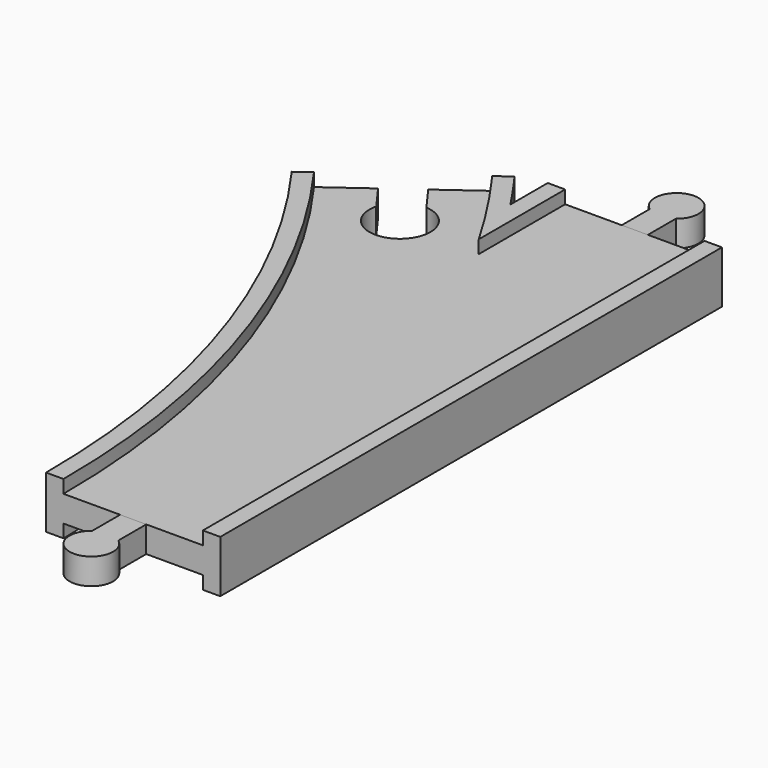
from build123d import *

# Parameters (mm, degrees)
SKETCH013_W       = 32
SKETCH013_H       = 3
POCKET_DEPTH      = 6.001
POCKET_DEPTH_BACK = -6.001
PAD_DEPTH         = 3
PAD001_DEPTH      = 3


with BuildPart() as body:
    # AdditivePipe: sweep along a path in Sketch002
    with BuildLine(Plane.XY) as additivepipe_path:
        ThreePointArc((0, 0), (-10.865453, 68.601773), (-42.398227, 130.488326))
    # Sketch → AdditivePipe (sweep)
    with BuildSketch(Plane.XZ):
        Polygon((-20, 6), (-20, -6), (-16, -6), (-16, -3), (-9, -3), (9, -3), (16, -3), (16, -6), (20, -6), (20, 6), (16, 6), (16, 3), (9, 3), (-9, 3), (-16, 3), (-16, 6), align=None)
    sweep(path=additivepipe_path.line)

    # AdditivePipe001: sweep along a path in Sketch001
    with BuildLine(Plane.XY) as additivepipe001_path:
        Line((0, 0), (0, 144))
    # Sketch → AdditivePipe001 (sweep)
    with BuildSketch(Plane.XZ):
        Polygon((-20, 6), (-20, -6), (-16, -6), (-16, -3), (-9, -3), (9, -3), (16, -3), (16, -6), (20, -6), (20, 6), (16, 6), (16, 3), (9, 3), (-9, 3), (-16, 3), (-16, 6), align=None)
    sweep(path=additivepipe001_path.line)

    # SubtractivePipe: sweep along a path in Sketch002
    with BuildLine(Plane.XY) as subtractivepipe_path:
        ThreePointArc((0, 0), (-10.865453, 68.601773), (-42.398227, 130.488326))
    # Sketch013 (on Face1 of AdditivePipe001) → SubtractivePipe (sweep, cut)
    with BuildSketch(Plane.XZ):
        with Locations((0, 4.5)):
            Rectangle(SKETCH013_W, SKETCH013_H)
    subtractivepipe = sweep(path=subtractivepipe_path.line, mode=Mode.SUBTRACT)

    # SubtractivePipe001: sweep along a path in Sketch001
    with BuildLine(Plane.XY) as subtractivepipe001_path:
        Line((0, 0), (0, 144))
    # Sketch013 (on Face1 of AdditivePipe001) → SubtractivePipe001 (sweep, cut)
    with BuildSketch(Plane.XZ):
        with Locations((0, 4.5)):
            Rectangle(SKETCH013_W, SKETCH013_H)
    subtractivepipe001 = sweep(path=subtractivepipe001_path.line, mode=Mode.SUBTRACT)

    # Mirrored: SubtractivePipe across XY
    add(subtractivepipe.mirror(Plane.XY), mode=Mode.SUBTRACT)

    # Mirrored001: SubtractivePipe001 across XY
    add(subtractivepipe001.mirror(Plane.XY), mode=Mode.SUBTRACT)

    # Sketch015 → Pocket (cut, two sides)
    with BuildSketch(Plane.XY) as pocket_sk:
        with BuildLine():
            Line((-46.038804, 127.843292), (-38.757651, 133.13336))
            Line((-38.757651, 133.13336), (-34.643154, 127.470241))
            ThreePointArc((-41.924307, 122.180173), (-31.017586, 114.824218), (-34.643154, 127.470241))
            Line((-46.038804, 127.843292), (-41.924307, 122.180173))
        make_face()
    extrude(amount=-POCKET_DEPTH, mode=Mode.SUBTRACT)
    extrude(pocket_sk.sketch, amount=-POCKET_DEPTH_BACK, mode=Mode.SUBTRACT)


with BuildPart() as body001:
    # Sketch008 → Pad (new body, symmetric)
    with BuildSketch(Plane.XY):
        with BuildLine():
            Line((-3, 0), (3, 0))
            Line((3, 0), (3, -8))
            ThreePointArc((-3, -8), (0, -17), (3, -8))
            Line((-3, 0), (-3, -8))
        make_face()
    extrude(amount=PAD_DEPTH, both=True)


with BuildPart() as body002:
    # Sketch011 → Pad001 (new body, symmetric)
    with BuildSketch(Plane.XY):
        with BuildLine():
            Line((-3, 144), (3, 144))
            Line((3, 144), (3, 152))
            ThreePointArc((3, 152), (0, 161), (-3, 152))
            Line((-3, 144), (-3, 152))
        make_face()
    extrude(amount=PAD001_DEPTH, both=True)


solid = Compound([body.part, body001.part, body002.part])
